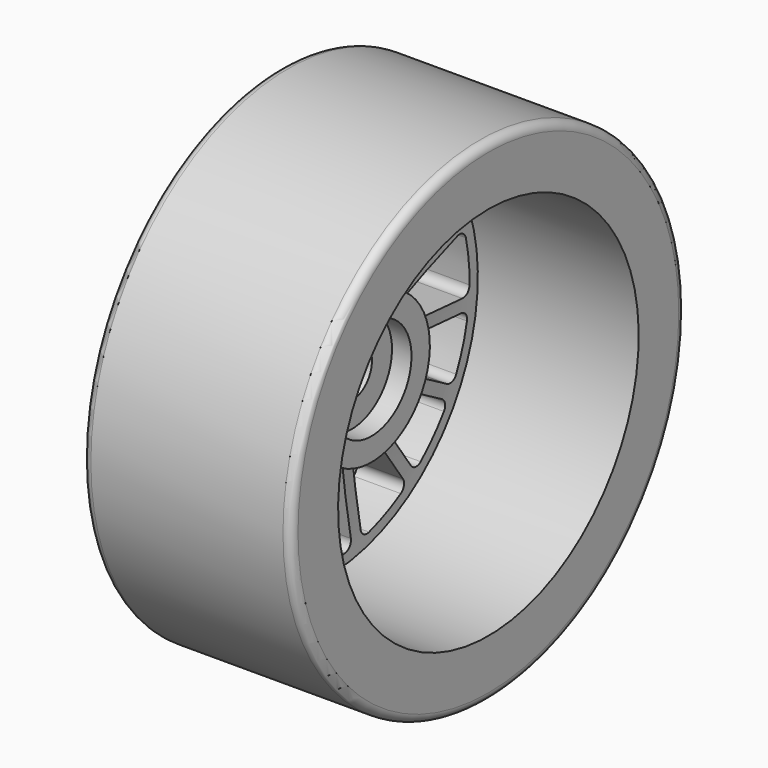
from build123d import *

# Parameters (mm, degrees)
F0_R     = 59
F0_R_2   = 49
F1_DEPTH = 50
F5_R     = 2
F7_DEPTH = 50.001


with BuildPart() as f1:
    # F0 (on Right) → F1 (new body)
    with BuildSketch(Plane.YZ):
        Circle(F0_R)
        Circle(F0_R_2, mode=Mode.SUBTRACT)
    extrude(amount=-F1_DEPTH)

    # F2 (on Front) → F4 (revolve)
    with BuildSketch(Plane.XZ):
        with BuildLine():
            Line((-38.525801, 45), (0, 45))
            Line((0, 45), (0, 49))
            Line((0, 49), (-50, 49))
            add(Edge.make_bspline(
                [(-43, 12), (-45.869544, 17.674131), (-50, 29.5), (-50, 49)],
                knots=[0, 0, 0, 0, 37.656341, 37.656341, 37.656341, 37.656341], degree=3))
            Line((-43, 12), (-38, 12))
            Line((-38, 12), (-38, 6))
            Line((-38, 6), (-32.684162, 6))
            Line((-32.684162, 6), (-32.684162, 12))
            Line((-32.684162, 12), (-28.016398, 12))
            Line((-28.016398, 12), (-28.016398, 17.5))
            Line((-28.016398, 17.5), (-37, 17.5))
            add(Edge.make_bspline(
                [(-38.525801, 45), (-38.525801, 35.160467), (-37.65307, 20.661842), (-37, 17.5)],
                knots=[0, 0, 0, 0, 27.542296, 27.542296, 27.542296, 27.542296], degree=3))
        make_face()
    revolve(axis=Axis((-66.757329, 0, 0), (-1, 0, 0)))

    # F5
    f5_edges = [f1.edges().sort_by_distance(p)[0] for p in [
        (-50, -59, 0),
        (0, -59, 0),
        (-43, 0, -12),
        (-38, 0, -12),
    ]]
    fillet(f5_edges, radius=F5_R)

    # F6 (on Right) → F7 (cut, through all)
    with BuildSketch(Plane.YZ):
        with BuildLine():
            ThreePointArc((-1.5, 40.348482), (-2.148275, 41.822537), (-3.67284, 42.341))
            ThreePointArc((-3.67284, 42.341), (-8.836247, 41.571273), (-13.86633, 40.174306))
            ThreePointArc((-13.86633, 40.174306), (-15.048212, 39.080571), (-15.040888, 37.470277))
            Line((-15.040888, 37.470277), (-7.051684, 19.526232))
            ThreePointArc((-7.051684, 19.526232), (-6.094962, 18.539023), (-4.727013, 18.402591))
            ThreePointArc((-4.727013, 18.402591), (-3.950322, 18.584804), (-3.166667, 18.734253))
            ThreePointArc((-3.166667, 18.734253), (-1.972475, 19.415285), (-1.5, 20.706279))
            Line((-1.5, 20.706279), (-1.5, 40.348482))
        make_face()
        with BuildLine():
            ThreePointArc((-10.512801, 15.826592), (-9.698853, 16.934467), (-9.792321, 18.306022))
            Line((-9.792321, 18.306022), (-17.781524, 36.250067))
            ThreePointArc((-17.781524, 36.250067), (-18.973305, 37.333007), (-20.576942, 37.186549))
            ThreePointArc((-20.576942, 37.186549), (-24.980873, 34.383222), (-29.007885, 31.06111))
            ThreePointArc((-29.007885, 31.06111), (-29.642726, 29.581219), (-28.98107, 28.113121))
            Line((-28.98107, 28.113121), (-14.384068, 14.969922))
            ThreePointArc((-14.384068, 14.969922), (-13.108525, 14.457196), (-11.803349, 14.888954))
            ThreePointArc((-11.803349, 14.888954), (-11.16792, 15.371323), (-10.512801, 15.826592))
        make_face()
        with BuildLine():
            ThreePointArc((-16.041177, 10.18237), (-15.748212, 11.525527), (-16.39146, 12.740488))
            Line((-16.39146, 12.740488), (-30.988462, 25.883687))
            ThreePointArc((-30.988462, 25.883687), (-32.517679, 26.38826), (-33.923104, 25.602207))
            ThreePointArc((-33.923104, 25.602207), (-36.80608, 21.25), (-39.133714, 16.577166))
            ThreePointArc((-39.133714, 16.577166), (-39.111743, 14.967006), (-37.910161, 13.894951))
            Line((-37.910161, 13.894951), (-19.229316, 7.825177))
            ThreePointArc((-19.229316, 7.825177), (-17.855505, 7.875588), (-16.838779, 8.800881))
            ThreePointArc((-16.838779, 8.800881), (-16.454483, 9.5), (-16.041177, 10.18237))
        make_face()
        with BuildLine():
            ThreePointArc((-18.795887, 2.777523), (-19.074561, 4.123718), (-20.156367, 4.972007))
            Line((-20.156367, 4.972007), (-38.837212, 11.041782))
            ThreePointArc((-38.837212, 11.041782), (-40.43945, 10.880744), (-41.403653, 9.59101))
            ThreePointArc((-41.403653, 9.59101), (-42.267181, 4.44246), (-42.492967, -0.77312))
            ThreePointArc((-42.492967, -0.77312), (-41.817985, -2.235139), (-40.284241, -2.725782))
            Line((-40.284241, -2.725782), (-20.749641, -0.672613))
            ThreePointArc((-20.749641, -0.672613), (-19.515106, -0.067781), (-18.962631, 1.191057))
            ThreePointArc((-18.962631, 1.191057), (-18.895916, 1.986041), (-18.795887, 2.777523))
        make_face()
        with BuildLine():
            ThreePointArc((-18.300618, -5.107582), (-19.102746, -3.991119), (-20.436055, -3.656178))
            Line((-20.436055, -3.656178), (-39.970656, -5.709348))
            ThreePointArc((-39.970656, -5.709348), (-41.368873, -6.508152), (-41.725135, -8.078559))
            ThreePointArc((-41.725135, -8.078559), (-40.419902, -13.133222), (-38.504801, -17.989728))
            ThreePointArc((-38.504801, -17.989728), (-37.293517, -19.050808), (-35.69281, -18.875203))
            Line((-35.69281, -18.875203), (-18.682164, -9.054102))
            ThreePointArc((-18.682164, -9.054102), (-17.800367, -7.999429), (-17.807672, -6.624713))
            ThreePointArc((-17.807672, -6.624713), (-18.070074, -5.871323), (-18.300618, -5.107582))
        make_face()
        with BuildLine():
            ThreePointArc((-14.641005, -12.10954), (-15.827892, -11.415856), (-17.182164, -11.652178))
            Line((-17.182164, -11.652178), (-34.19281, -21.473279))
            ThreePointArc((-34.19281, -21.473279), (-35.145242, -22.771729), (-34.831962, -24.351272))
            ThreePointArc((-34.831962, -24.351272), (-31.583655, -28.438051), (-27.858805, -32.095747))
            ThreePointArc((-27.858805, -32.095747), (-26.320662, -32.572419), (-24.929768, -31.76093))
            Line((-24.929768, -31.76093), (-13.384371, -15.870054))
            ThreePointArc((-13.384371, -15.870054), (-13.007784, -14.547904), (-13.573605, -13.295009))
            ThreePointArc((-13.573605, -13.295009), (-14.119752, -12.713482), (-14.641005, -12.10954))
        make_face()
        with BuildLine():
            ThreePointArc((-8.44983, -17.017649), (-9.816252, -16.866687), (-10.95732, -17.63341))
            Line((-10.95732, -17.63341), (-22.502717, -33.524286))
            ThreePointArc((-22.502717, -33.524286), (-22.84468, -35.097868), (-21.916026, -36.413429))
            ThreePointArc((-21.916026, -36.413429), (-17.286307, -38.825682), (-12.395768, -40.652121))
            ThreePointArc((-12.395768, -40.652121), (-10.796725, -40.461963), (-9.856143, -39.154903))
            Line((-9.856143, -39.154903), (-5.772299, -19.94193))
            ThreePointArc((-5.772299, -19.94193), (-5.966036, -18.580914), (-6.992538, -17.666477))
            ThreePointArc((-6.992538, -17.666477), (-7.727996, -17.357364), (-8.44983, -17.017649))
        make_face()
        with BuildLine():
            ThreePointArc((-0.797603, -18.983251), (-2.107293, -19.401115), (-2.837856, -20.565665))
            Line((-2.837856, -20.565665), (-6.9217, -39.778638))
            ThreePointArc((-6.9217, -39.778638), (-6.594064, -41.355266), (-5.21061, -42.179373))
            ThreePointArc((-5.21061, -42.179373), (0, -42.5), (5.21061, -42.179373))
            ThreePointArc((5.21061, -42.179373), (6.594064, -41.355266), (6.9217, -39.778638))
            Line((6.9217, -39.778638), (2.837856, -20.565665))
            ThreePointArc((2.837856, -20.565665), (2.107293, -19.401115), (0.797603, -18.983251))
            ThreePointArc((0.797603, -18.983251), (0, -19), (-0.797603, -18.983251))
        make_face()
        with BuildLine():
            ThreePointArc((6.992538, -17.666477), (5.966036, -18.580914), (5.772299, -19.94193))
            Line((5.772299, -19.94193), (9.856143, -39.154903))
            ThreePointArc((9.856143, -39.154903), (10.796725, -40.461963), (12.395768, -40.652121))
            ThreePointArc((12.395768, -40.652121), (17.286307, -38.825682), (21.916026, -36.413429))
            ThreePointArc((21.916026, -36.413429), (22.84468, -35.097868), (22.502717, -33.524286))
            Line((22.502717, -33.524286), (10.95732, -17.63341))
            ThreePointArc((10.95732, -17.63341), (9.816252, -16.866687), (8.44983, -17.017649))
            ThreePointArc((8.44983, -17.017649), (7.727996, -17.357364), (6.992538, -17.666477))
        make_face()
        with BuildLine():
            ThreePointArc((13.573605, -13.295009), (13.007784, -14.547904), (13.384371, -15.870054))
            Line((13.384371, -15.870054), (24.929768, -31.76093))
            ThreePointArc((24.929768, -31.76093), (26.320662, -32.572419), (27.858805, -32.095747))
            ThreePointArc((27.858805, -32.095747), (31.583655, -28.438051), (34.831962, -24.351272))
            ThreePointArc((34.831962, -24.351272), (35.145242, -22.771729), (34.19281, -21.473279))
            Line((34.19281, -21.473279), (17.182164, -11.652178))
            ThreePointArc((17.182164, -11.652178), (15.827892, -11.415856), (14.641005, -12.10954))
            ThreePointArc((14.641005, -12.10954), (14.119752, -12.713482), (13.573605, -13.295009))
        make_face()
        with BuildLine():
            ThreePointArc((17.807672, -6.624713), (17.800367, -7.999429), (18.682164, -9.054102))
            Line((18.682164, -9.054102), (35.69281, -18.875203))
            ThreePointArc((35.69281, -18.875203), (37.293517, -19.050808), (38.504801, -17.989728))
            ThreePointArc((38.504801, -17.989728), (40.419902, -13.133222), (41.725135, -8.078559))
            ThreePointArc((41.725135, -8.078559), (41.368873, -6.508152), (39.970656, -5.709348))
            Line((39.970656, -5.709348), (20.436055, -3.656178))
            ThreePointArc((20.436055, -3.656178), (19.102746, -3.991119), (18.300618, -5.107582))
            ThreePointArc((18.300618, -5.107582), (18.070074, -5.871323), (17.807672, -6.624713))
        make_face()
        with BuildLine():
            ThreePointArc((18.962631, 1.191057), (19.515106, -0.067781), (20.749641, -0.672613))
            Line((20.749641, -0.672613), (40.284241, -2.725782))
            ThreePointArc((40.284241, -2.725782), (41.817985, -2.235139), (42.492967, -0.77312))
            ThreePointArc((42.492967, -0.77312), (42.267181, 4.44246), (41.403653, 9.59101))
            ThreePointArc((41.403653, 9.59101), (40.43945, 10.880744), (38.837212, 11.041782))
            Line((38.837212, 11.041782), (20.156367, 4.972007))
            ThreePointArc((20.156367, 4.972007), (19.074561, 4.123718), (18.795887, 2.777523))
            ThreePointArc((18.795887, 2.777523), (18.895916, 1.986041), (18.962631, 1.191057))
        make_face()
        with BuildLine():
            ThreePointArc((16.838779, 8.800881), (17.855505, 7.875588), (19.229316, 7.825177))
            Line((19.229316, 7.825177), (37.910161, 13.894951))
            ThreePointArc((37.910161, 13.894951), (39.111743, 14.967006), (39.133714, 16.577166))
            ThreePointArc((39.133714, 16.577166), (36.80608, 21.25), (33.923104, 25.602207))
            ThreePointArc((33.923104, 25.602207), (32.517679, 26.38826), (30.988462, 25.883687))
            Line((30.988462, 25.883687), (16.39146, 12.740488))
            ThreePointArc((16.39146, 12.740488), (15.748212, 11.525527), (16.041177, 10.18237))
            ThreePointArc((16.041177, 10.18237), (16.454483, 9.5), (16.838779, 8.800881))
        make_face()
        with BuildLine():
            ThreePointArc((11.803349, 14.888954), (13.108525, 14.457196), (14.384068, 14.969922))
            Line((14.384068, 14.969922), (28.98107, 28.113121))
            ThreePointArc((28.98107, 28.113121), (29.642726, 29.581219), (29.007885, 31.06111))
            ThreePointArc((29.007885, 31.06111), (24.980873, 34.383222), (20.576942, 37.186549))
            ThreePointArc((20.576942, 37.186549), (18.973305, 37.333007), (17.781524, 36.250067))
            Line((17.781524, 36.250067), (9.792321, 18.306022))
            ThreePointArc((9.792321, 18.306022), (9.698853, 16.934467), (10.512801, 15.826592))
            ThreePointArc((10.512801, 15.826592), (11.16792, 15.371323), (11.803349, 14.888954))
        make_face()
        with BuildLine():
            ThreePointArc((4.727013, 18.402591), (6.094962, 18.539023), (7.051684, 19.526232))
            Line((7.051684, 19.526232), (15.040888, 37.470277))
            ThreePointArc((15.040888, 37.470277), (15.048212, 39.080571), (13.86633, 40.174306))
            ThreePointArc((13.86633, 40.174306), (8.836247, 41.571273), (3.67284, 42.341))
            ThreePointArc((3.67284, 42.341), (2.148275, 41.822537), (1.5, 40.348482))
            Line((1.5, 40.348482), (1.5, 20.706279))
            ThreePointArc((1.5, 20.706279), (1.972475, 19.415285), (3.166667, 18.734253))
            ThreePointArc((3.166667, 18.734253), (3.950322, 18.584804), (4.727013, 18.402591))
        make_face()
    extrude(amount=-F7_DEPTH, mode=Mode.SUBTRACT)


solid = f1.part
